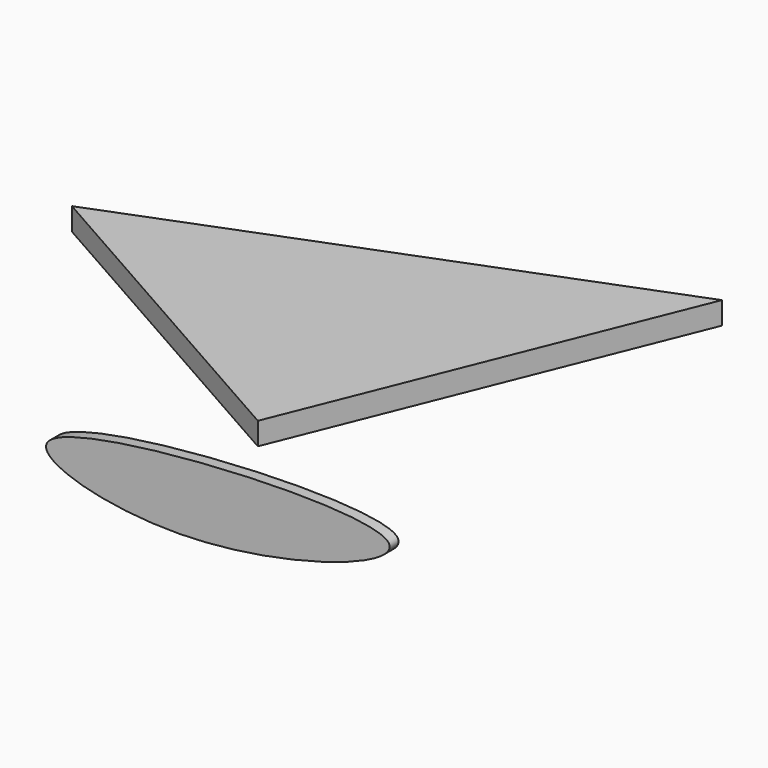
from build123d import *

# Parameters (mm, degrees)
F1_DEPTH = 5.08
F3_DEPTH = 2.54


with BuildPart() as f1:
    # F0 (on Top) → F1 (new body)
    with BuildSketch(Plane.XY):
        Polygon((-42.0033708215, 78.3801078796), (-153.9623588324, 34.7892716527), (-77.1266296506, -8.7589249015), align=None)
    extrude(amount=F1_DEPTH)


with BuildPart() as f3:
    # F2 (on Front) → F3 (new body)
    with BuildSketch(Plane.XZ):
        with BuildLine():
            add(Edge.make_bspline(
                [(-128.9241313934, -18.0939510465), (-120.6935786241, -11.59275708), (-12.4510656215, -5.3451419349), (-97.6229845345, -34.4365480822), (-134.2398138389, -22.2927313241), (-128.9241313934, -18.0939510465)],
                knots=[0, 0, 0, 0, 0.410256101, 0.7350370971, 1, 1, 1, 1], degree=3))
        make_face()
    extrude(amount=F3_DEPTH)


solid = Compound([f1.part, f3.part])
